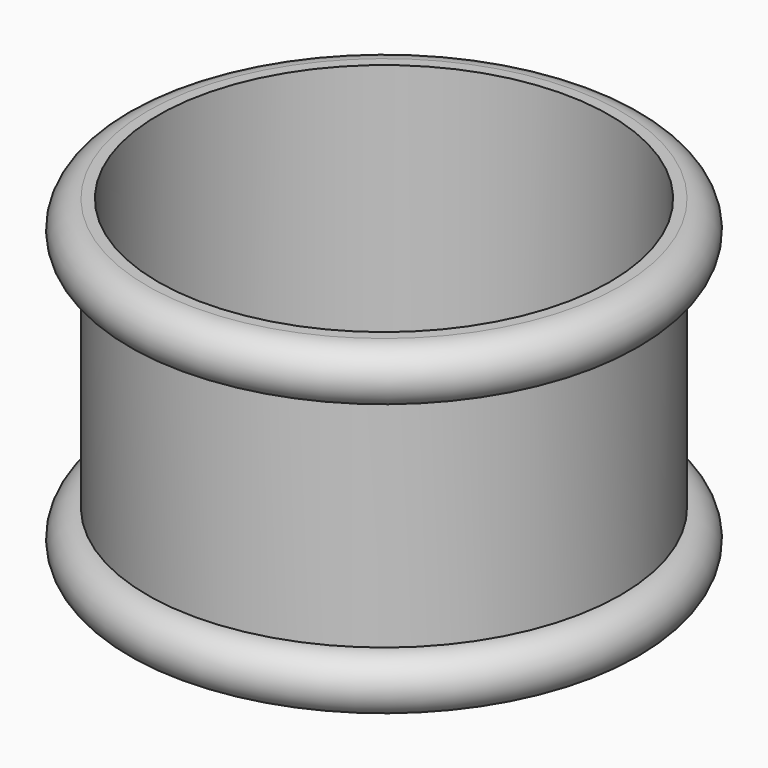
from build123d import *

# Parameters (mm, degrees)
F0_R     = 43.5
F0_R_2   = 41.5
F1_DEPTH = 60


with BuildPart() as f1:
    # F0 (on Top) → F1 (new body)
    with BuildSketch(Plane.XY):
        Circle(F0_R)
        Circle(F0_R_2, mode=Mode.SUBTRACT)
    extrude(amount=F1_DEPTH)

    # F2 (on Right) → F3 (revolve)
    with BuildSketch(Plane.YZ):
        with BuildLine():
            Line((-43.5, 0), (-43.5, 10))
            ThreePointArc((-43.5, 10), (-48.5, 5), (-43.5, 0))
        make_face()
        with BuildLine():
            ThreePointArc((-43.5, 60), (-48.5, 55), (-43.5, 50))
            Line((-43.5, 50), (-43.5, 60))
        make_face()
    revolve(axis=Axis((0, 0, 37.078973), (0, 0, -1)))


solid = f1.part
